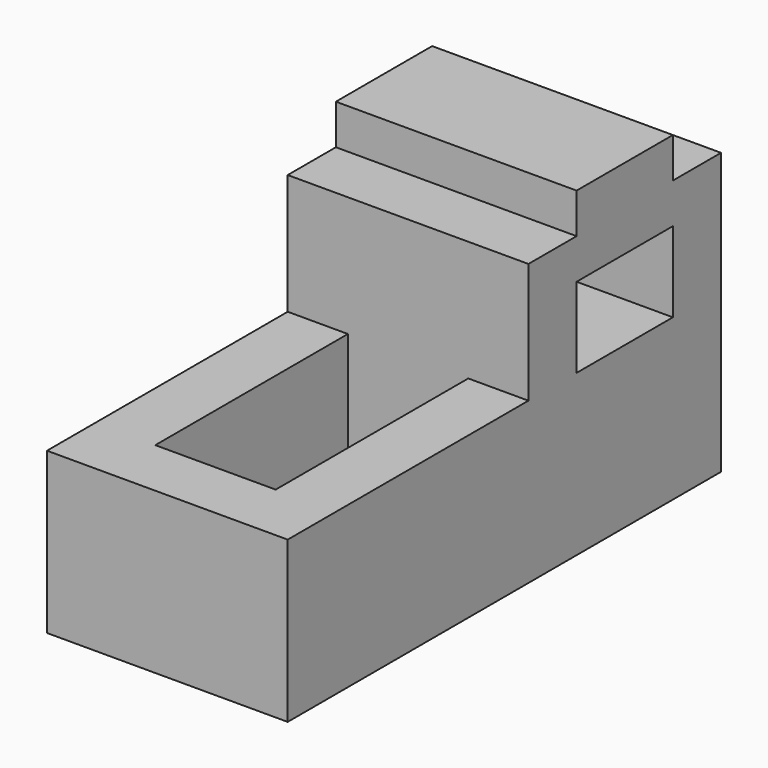
from build123d import *

# Parameters (mm, degrees)
F1_DEPTH = 1219.2
F2_W     = 609.6
F2_H     = 1219.2
F3_DEPTH = 609.6
F4_W     = 609.6
F4_H     = 406.4
F5_DEPTH = 1219.201


with BuildPart() as f1:
    # F0 (on Right) → F1 (new body)
    with BuildSketch(Plane.YZ):
        Polygon((-1381.461723, -162.566067), (-1381.461723, -975.366067), (1361.738277, -975.366067), (1361.738277, 447.033933), (1056.938277, 447.033933), (1056.938277, 650.233933), (447.338277, 650.233933), (447.338277, 447.033933), (142.538277, 447.033933), (142.538277, -162.566067), align=None)
    extrude(amount=F1_DEPTH)

    # F2 (on face) → F3 (cut)
    with BuildSketch(Plane.XY.offset(-162.566067)):
        with Locations((609.6, -467.061723)):
            Rectangle(F2_W, F2_H)
    extrude(amount=-F3_DEPTH, mode=Mode.SUBTRACT)

    # F4 (on face) → F5 (cut, through all)
    with BuildSketch(Plane.YZ.offset(1219.2)):
        with Locations((752.138277, 40.633933)):
            Rectangle(F4_W, F4_H)
    extrude(amount=-F5_DEPTH, mode=Mode.SUBTRACT)


solid = f1.part
